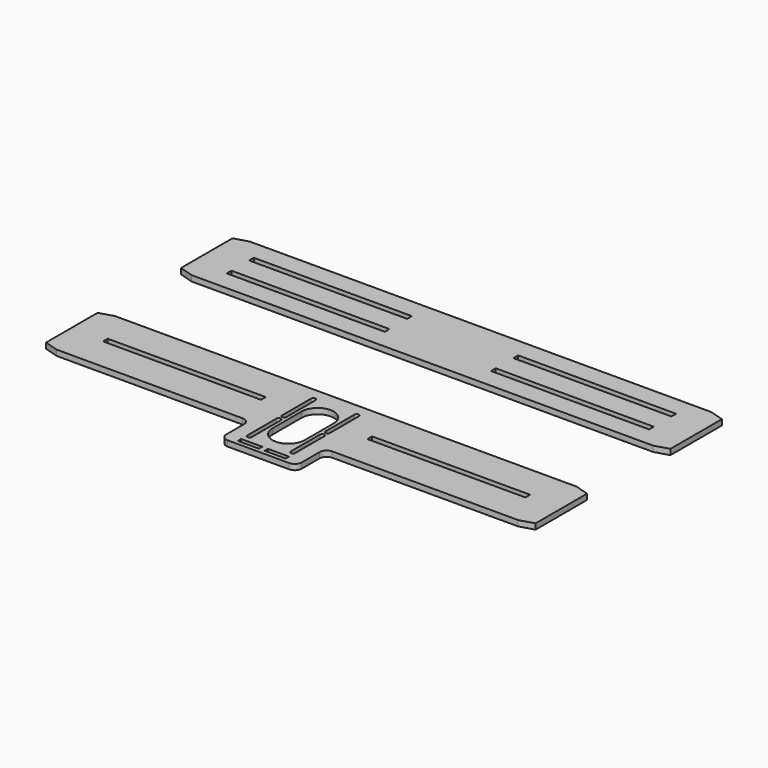
from build123d import *

# Parameters (mm, degrees)
F0_W     = 113
F0_H     = 4.2
F0_W_2   = 15.1
F0_H_2   = 3
F1_DEPTH = 4


with BuildPart() as f1:
    # F0 (on Top) → F1 (new body)
    with BuildSketch(Plane.XY):
        Polygon((-163.735444, 97.687372), (-173.735444, 94.687372), (-173.735444, 48.687372), (-163.735444, 45.687372), (166.264556, 45.687372), (176.264556, 48.687372), (176.264556, 94.687372), (166.264556, 97.687372), align=None)
        with Locations((-93.235444, 61.687372)):
            Rectangle(F0_W, F0_H, mode=Mode.SUBTRACT)
        with Locations((-93.235444, 81.687372)):
            Rectangle(F0_W, F0_H, mode=Mode.SUBTRACT)
        with Locations((95.764556, 61.687372)):
            Rectangle(F0_W, F0_H, mode=Mode.SUBTRACT)
        with Locations((95.764556, 81.687372)):
            Rectangle(F0_W, F0_H, mode=Mode.SUBTRACT)
        with BuildLine():
            Line((163.735445, -19.687373), (-166.264555, -19.687373))
            Line((-166.264555, -19.687373), (-176.264555, -22.687373))
            Line((-176.264555, -22.687373), (-176.264555, -68.687373))
            Line((-176.264555, -68.687373), (-166.264555, -71.687373))
            Line((-166.264555, -71.687373), (-33.264555, -71.687373))
            ThreePointArc((-33.264555, -71.687373), (-29.729021, -73.151839), (-28.264555, -76.687373))
            Line((-28.264555, -76.687373), (-28.264555, -92.687373))
            ThreePointArc((-28.264555, -92.687373), (-26.800089, -96.222907), (-23.264555, -97.687373))
            Line((-23.264555, -97.687373), (20.735445, -97.687373))
            ThreePointArc((20.735445, -97.687373), (24.270979, -96.222907), (25.735445, -92.687373))
            Line((25.735445, -92.687373), (25.735445, -76.687373))
            ThreePointArc((25.735445, -76.687373), (27.199911, -73.151839), (30.735445, -71.687373))
            Line((30.735445, -71.687373), (163.735445, -71.687373))
            Line((163.735445, -71.687373), (173.735445, -68.687373))
            Line((173.735445, -68.687373), (173.735445, -22.687373))
            Line((173.735445, -22.687373), (163.735445, -19.687373))
        make_face()
        with Locations((-10.814555, -93.187373)):
            Rectangle(F0_W_2, F0_H_2, mode=Mode.SUBTRACT)
        with BuildLine():
            Line((-15.164555, -60.187373), (-15.164555, -86.187373))
            ThreePointArc((-15.164555, -86.187373), (-16.764555, -87.787373), (-18.364555, -86.187373))
            Line((-18.364555, -86.187373), (-18.364555, -60.187373))
            ThreePointArc((-18.364555, -60.187373), (-16.764555, -58.587373), (-15.164555, -60.187373))
        make_face(mode=Mode.SUBTRACT)
        with BuildLine():
            Line((-12.764555, -70.687373), (-12.764555, -44.687373))
            ThreePointArc((-12.764555, -44.687373), (-1.264555, -33.187373), (10.235445, -44.687373))
            Line((10.235445, -44.687373), (10.235445, -70.687373))
            ThreePointArc((10.235445, -70.687373), (-1.264555, -82.187373), (-12.764555, -70.687373))
        make_face(mode=Mode.SUBTRACT)
        with Locations((-95.764555, -45.687373)):
            Rectangle(F0_W, F0_H, mode=Mode.SUBTRACT)
        with BuildLine():
            Line((-18.364555, -55.187373), (-18.364555, -29.187373))
            ThreePointArc((-18.364555, -29.187373), (-16.764555, -27.587373), (-15.164555, -29.187373))
            Line((-15.164555, -29.187373), (-15.164555, -55.187373))
            ThreePointArc((-15.164555, -55.187373), (-16.764555, -56.787373), (-18.364555, -55.187373))
        make_face(mode=Mode.SUBTRACT)
        with Locations((8.285445, -93.187373)):
            Rectangle(F0_W_2, F0_H_2, mode=Mode.SUBTRACT)
        with BuildLine():
            Line((15.835445, -60.187373), (15.835445, -86.187373))
            ThreePointArc((15.835445, -86.187373), (14.235445, -87.787373), (12.635445, -86.187373))
            Line((12.635445, -86.187373), (12.635445, -60.187373))
            ThreePointArc((12.635445, -60.187373), (14.235445, -58.587373), (15.835445, -60.187373))
        make_face(mode=Mode.SUBTRACT)
        with BuildLine():
            Line((12.635445, -55.187373), (12.635445, -29.187373))
            ThreePointArc((12.635445, -29.187373), (14.235445, -27.587373), (15.835445, -29.187373))
            Line((15.835445, -29.187373), (15.835445, -55.187373))
            ThreePointArc((15.835445, -55.187373), (14.235445, -56.787373), (12.635445, -55.187373))
        make_face(mode=Mode.SUBTRACT)
        with Locations((93.235445, -45.687373)):
            Rectangle(F0_W, F0_H, mode=Mode.SUBTRACT)
    extrude(amount=F1_DEPTH)


solid = f1.part
